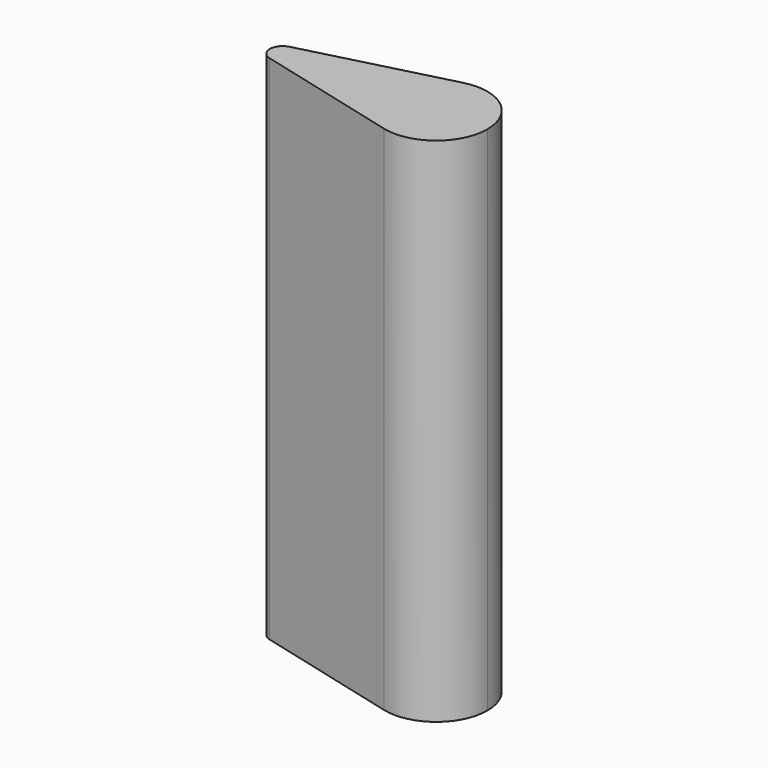
from build123d import *

# Parameters (mm, degrees)
F1_DEPTH = 100


with BuildPart() as f1:
    # F0 (on Top) → F1 (new body)
    with BuildSketch(Plane.XY):
        with BuildLine():
            ThreePointArc((-10.625, 2.420615), (-8.469069, 1.976424), (-7.5, 0))
            ThreePointArc((-7.5, 0), (-8.469069, -1.976424), (-10.625, -2.420615))
            Line((-10.625, -2.420615), (17.5, -9.682458))
            ThreePointArc((17.5, -9.682458), (10, 0), (17.5, 9.682458))
            Line((17.5, 9.682458), (-10.625, 2.420615))
        make_face()
        with BuildLine():
            ThreePointArc((30, 0), (26.123724, 7.905694), (17.5, 9.682458))
            ThreePointArc((17.5, 9.682458), (10, 0), (17.5, -9.682458))
            ThreePointArc((17.5, -9.682458), (26.123724, -7.905694), (30, 0))
        make_face()
        with BuildLine():
            ThreePointArc((-10.625, -2.420615), (-8.469069, -1.976424), (-7.5, 0))
            ThreePointArc((-7.5, 0), (-8.469069, 1.976424), (-10.625, 2.420615))
            ThreePointArc((-10.625, 2.420615), (-12.5, 0), (-10.625, -2.420615))
        make_face()
    extrude(amount=F1_DEPTH)


solid = f1.part
